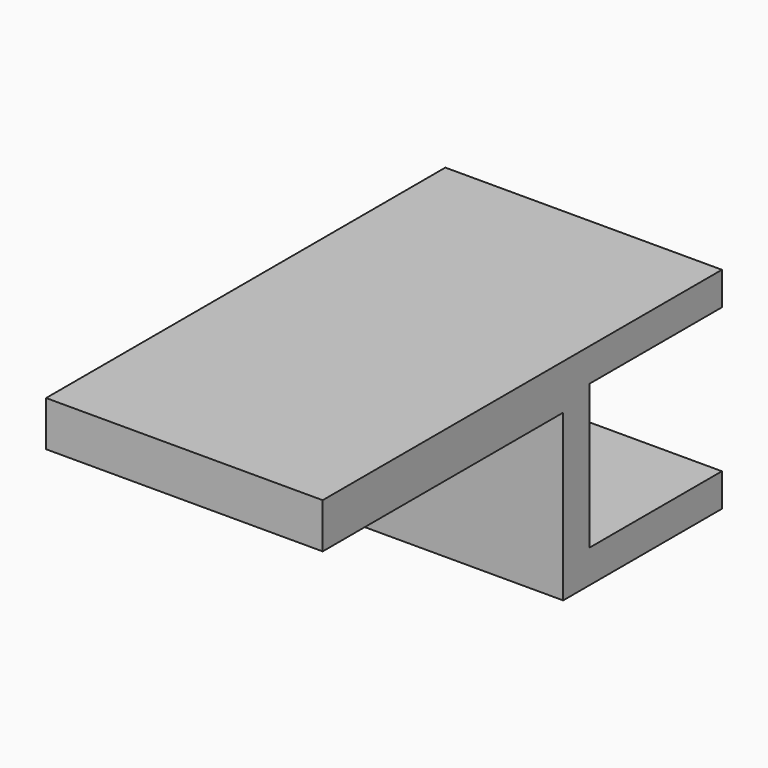
from build123d import *

# Parameters (mm, degrees)
F0_W      = 23.368
F0_H      = 13.97
F1_DEPTH  = 2.794
F2_W      = 23.368
F2_H      = 2.794
F3_DEPTH  = 14.986
F3_FACE_W = 23.368
F3_FACE_H = 2.794
F4_DEPTH  = 2.794
F5_W      = 23.368
F5_H      = 2.794
F6_DEPTH  = 13.97
F8_DEPTH  = 25.4
F9_W      = 23.368
F9_H      = 3.81
F10_DEPTH = 25.4


with BuildPart() as f1:
    # F0 (on Top) → F1 (new body)
    with BuildSketch(Plane.XY):
        Rectangle(F0_W, F0_H)
    extrude(amount=F1_DEPTH)

    # F2 (on face) → F3 (join)
    with BuildSketch(Plane(origin=(0, 0, 0), x_dir=(1, 0, 0), z_dir=(0, 0, -1))):
        with Locations((0, 8.382)):
            Rectangle(F2_W, F2_H)
    extrude(amount=-F3_DEPTH)

    # F3_face (on face) → F4 (join)
    with BuildSketch(Plane(origin=(0, -8.382, 14.986), x_dir=(1, 0, 0), z_dir=(0, 0, 1))):
        Rectangle(F3_FACE_W, F3_FACE_H)
    extrude(amount=F4_DEPTH)

    # F5 (on face) → F6 (join)
    with BuildSketch(Plane(origin=(0, -6.985, 0), x_dir=(-1, 0, 0), z_dir=(0, 1, 0))):
        with Locations((0, 16.383)):
            Rectangle(F5_W, F5_H)
    extrude(amount=F6_DEPTH)

    # F7 (on face) → F8 (cut)
    with BuildSketch(Plane.XZ.offset(9.779)):
        Polygon((-8.636, 10.795), (-11.684, 10.795), (-11.684, 8.89), (-11.684, 6.985), (-8.636, 6.985), align=None)
    extrude(amount=-F8_DEPTH, mode=Mode.SUBTRACT)

    # F9 (on face) → F10 (join)
    with BuildSketch(Plane.XZ.offset(9.779)):
        with Locations((0, 15.875)):
            Rectangle(F9_W, F9_H)
    extrude(amount=F10_DEPTH)


solid = f1.part
